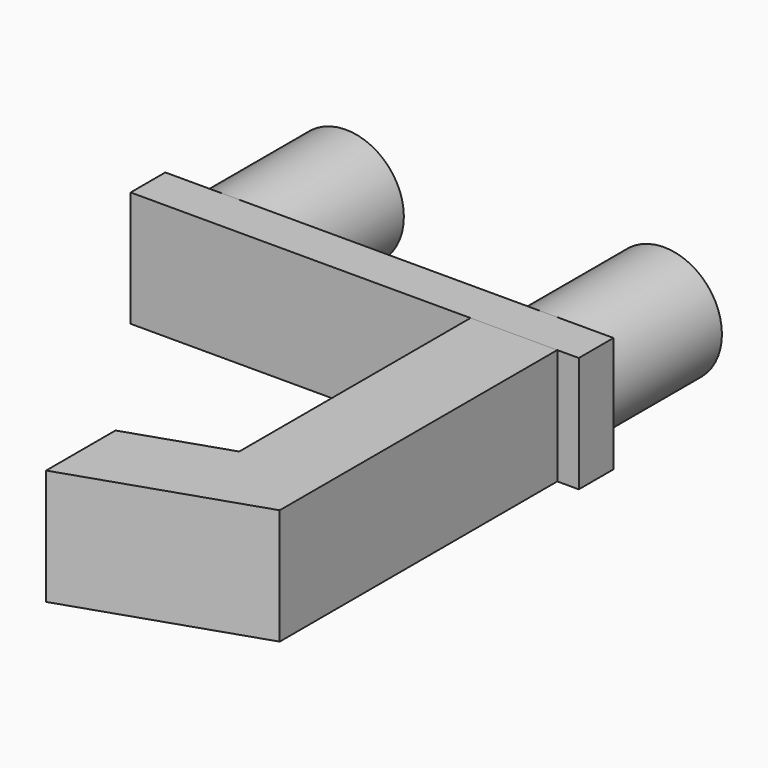
from build123d import *

# Parameters (mm, degrees)
CYLINDER_R             = 4
CYLINDER_DEPTH         = 10
CYLINDER_ROLL_ANGLE    = 90
CYLINDER001_R          = 4
CYLINDER001_DEPTH      = 10
CYLINDER001_ROLL_ANGLE = 90
BOX_W                  = 31
BOX_H                  = 3
BOX_DEPTH              = 8
PAD_DEPTH              = 4


with BuildPart() as pin1:
    # Cylinder → Cylinder (new body)
    with BuildSketch(Plane.XY):
        Circle(CYLINDER_R)
    extrude(amount=CYLINDER_DEPTH)


with BuildPart() as pin1_1:
    # Cylinder roll: moved
    add(pin1.part.rotate(Axis((0, 0, 0), (1, 0, 0)), CYLINDER_ROLL_ANGLE))


with BuildPart() as pin1_2:
    # Cylinder placement: moved
    add(pin1_1.part.moved(Location((0, -5, 0))))


with BuildPart() as pin2:
    # Cylinder001 → Cylinder001 (new body)
    with BuildSketch(Plane.XY):
        Circle(CYLINDER001_R)
    extrude(amount=CYLINDER001_DEPTH)


with BuildPart() as pin2_1:
    # Cylinder001 roll: moved
    add(pin2.part.rotate(Axis((0, 0, 0), (1, 0, 0)), CYLINDER001_ROLL_ANGLE))


with BuildPart() as pin2_2:
    # Cylinder001 placement: moved
    add(pin2_1.part.moved(Location((22, -5, 0))))


with BuildPart() as base:
    # Box → Box (new body)
    with BuildSketch(Plane(origin=(-4.5, -18, -4), x_dir=(1, 0, 0), z_dir=(0, 0, 1))):
        with Locations((15.5, 1.5)):
            Rectangle(BOX_W, BOX_H)
    extrude(amount=BOX_DEPTH)


with BuildPart() as pad:
    # Sketch → Pad (new body, symmetric)
    with BuildSketch(Plane.XY):
        Polygon((19.012369, -18), (25.012369, -18), (25.012369, -42), (12.254955, -46.252471), (12.254955, -40.252471), (19.012369, -38), align=None)
    extrude(amount=PAD_DEPTH, both=True)


solid = Compound([pin1_2.part, pin2_2.part, base.part, pad.part])
